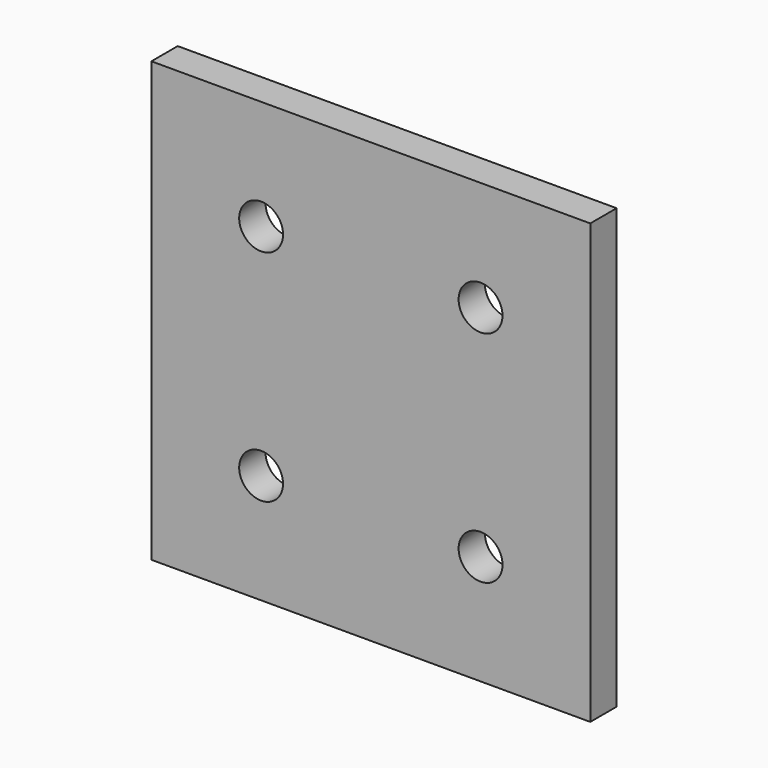
from build123d import *

# Parameters (mm, degrees)
F0_W     = 200
F0_H     = 200
F0_R     = 10
F1_DEPTH = 7.5


with BuildPart() as f1:
    # F0 (on Front) → F1 (new body, symmetric)
    with BuildSketch(Plane.XZ):
        Rectangle(F0_W, F0_H)
        with Locations((-50, -50)):
            Circle(F0_R, mode=Mode.SUBTRACT)
        with Locations((50, -50)):
            Circle(F0_R, mode=Mode.SUBTRACT)
        with Locations((-50, 50)):
            Circle(F0_R, mode=Mode.SUBTRACT)
        with Locations((50, 50)):
            Circle(F0_R, mode=Mode.SUBTRACT)
    extrude(amount=F1_DEPTH, both=True)


solid = f1.part
